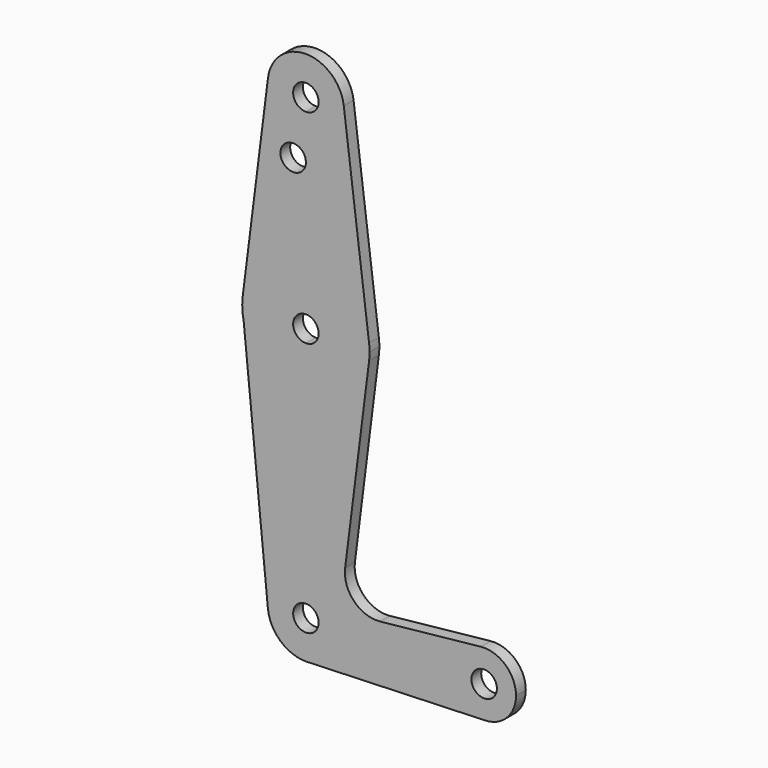
from build123d import *

# Parameters (mm, degrees)
F0_R     = 3.175
F1_DEPTH = 3.048


with BuildPart() as f1:
    # F0 (on Front) → F1 (new body)
    with BuildSketch(Plane.XZ):
        with BuildLine():
            ThreePointArc((-9.4502929642, 115.490625), (-7.14375, 107.9998046905), (0, 104.775))
            ThreePointArc((0, 104.775), (6.7351920908, 107.5648079092), (9.525, 114.3))
            ThreePointArc((9.525, 114.3), (9.5063048942, 114.896483242), (9.4502929642, 115.490625))
            ThreePointArc((9.4502929642, 115.490625), (0, 123.825), (-9.4502929642, 115.490625))
        make_face()
        with BuildLine():
            ThreePointArc((3.175, 114.3), (2.2450640303, 112.0549359697), (0, 111.125))
            ThreePointArc((0, 111.125), (-2.2450640303, 116.5450640303), (3.175, 114.3))
        make_face(mode=Mode.SUBTRACT)
        with BuildLine():
            ThreePointArc((9.525, 114.3), (6.7351920908, 107.5648079092), (0, 104.775))
            Line((0, 104.775), (0, 100.0252))
            Line((0, 100.0252), (0, 79.375))
            ThreePointArc((0, 79.375), (10.5003255158, 75.40625), (15.7504882737, 65.484375))
            Line((15.7504882737, 65.484375), (9.4502929642, 115.490625))
            ThreePointArc((9.4502929642, 115.490625), (9.5063048942, 114.896483242), (9.525, 114.3))
        make_face()
        with BuildLine():
            Line((0, 100.0252), (0, 104.775))
            ThreePointArc((0, 104.775), (-7.14375, 107.9998046905), (-9.4502929642, 115.490625))
            Line((-9.4502929642, 115.490625), (-15.7504882737, 65.484375))
            ThreePointArc((-15.7504882737, 65.484375), (-10.5003255158, 75.40625), (0, 79.375))
            Line((0, 79.375), (0, 100.0252))
        make_face()
        with Locations((-3.175, 100.0252)):
            Circle(F0_R, mode=Mode.SUBTRACT)
        with BuildLine():
            ThreePointArc((15.7504882737, 65.484375), (10.5003255158, 75.40625), (0, 79.375))
            Line((0, 79.375), (0, 66.675))
            ThreePointArc((0, 66.675), (2.2450640303, 65.7450640303), (3.175, 63.5))
            ThreePointArc((3.175, 63.5), (2.2450640303, 61.2549359697), (0, 60.325))
            Line((0, 60.325), (0, 47.625))
            ThreePointArc((0, 47.625), (10.5003255158, 51.59375), (15.7504882737, 61.515625))
            ThreePointArc((15.7504882737, 61.515625), (15.8438414904, 62.5058612634), (15.875, 63.5))
            ThreePointArc((15.875, 63.5), (15.8438414904, 64.4941387366), (15.7504882737, 65.484375))
        make_face()
        with BuildLine():
            Line((0, 66.675), (0, 79.375))
            ThreePointArc((0, 79.375), (-10.5003255158, 75.40625), (-15.7504882737, 65.484375))
            ThreePointArc((-15.7504882737, 65.484375), (-15.8584874514, 62.7761210362), (-15.5042087066, 60.0889682817))
            ThreePointArc((-15.5042087066, 60.0889682817), (-9.9464942686, 51.1273334821), (0, 47.625))
            Line((0, 47.625), (0, 60.325))
            ThreePointArc((0, 60.325), (-3.175, 63.5), (0, 66.675))
        make_face()
        with BuildLine():
            ThreePointArc((0, 47.625), (-9.9464942686, 51.1273334821), (-15.5042087066, 60.0889682817))
            Line((-15.5042087066, 60.0889682817), (-9.4789088694, -0.9359015145))
            ThreePointArc((-9.4789088694, -0.9359015145), (-7.0583314929, 6.3957471445), (0, 9.525))
            Line((0, 9.525), (0, 47.625))
        make_face()
        with BuildLine():
            ThreePointArc((15.7504882737, 61.515625), (10.5003255158, 51.59375), (0, 47.625))
            Line((0, 47.625), (0, 9.525))
            ThreePointArc((0, 9.525), (6.7351920908, 6.7351920908), (9.525, 0))
            Line((9.525, 0), (36.5125, 0))
            ThreePointArc((36.5125, 0), (38.5531915997, 5.3133376459), (43.6259631659, 7.894610158))
            Line((43.6259631659, 7.894610158), (18.4990640257, 5.271872619))
            ThreePointArc((18.4990640257, 5.271872619), (11.9924489796, 7.6177323413), (9.7858642053, 14.1728891532))
            Line((9.7858642053, 14.1728891532), (15.7504882737, 61.515625))
        make_face()
        with BuildLine():
            ThreePointArc((0, 9.525), (-7.0583314929, 6.3957471445), (-9.4789088694, -0.9359015145))
            ThreePointArc((-9.4789088694, -0.9359015145), (-6.3957471445, -7.0583314929), (0, -9.525))
            Line((0, -9.525), (0.6773435479, -9.500885786))
            ThreePointArc((0.6773435479, -9.500885786), (6.9705567315, -6.4912990883), (9.525, 0))
            Line((9.525, 0), (3.175, 0))
            ThreePointArc((3.175, 0), (-2.2450640303, -2.2450640303), (0, 3.175))
            Line((0, 3.175), (0, 9.525))
        make_face()
        with BuildLine():
            Line((0.6773435479, -9.500885786), (0, -9.525))
            ThreePointArc((0, -9.525), (0.3388863295, -9.5189695375), (0.6773435479, -9.500885786))
        make_face()
        with BuildLine():
            Line((36.5125, 0), (9.525, 0))
            ThreePointArc((9.525, 0), (6.9705567315, -6.4912990883), (0.6773435479, -9.500885786))
            Line((0.6773435479, -9.500885786), (44.7324052746, -7.9324746146))
            ThreePointArc((44.7324052746, -7.9324746146), (38.9380895153, -5.7116327839), (36.5125, 0))
        make_face()
        with BuildLine():
            ThreePointArc((43.6259631659, 7.894610158), (38.5531915997, 5.3133376459), (36.5125, 0))
            ThreePointArc((36.5125, 0), (38.9380895153, -5.7116327839), (44.7324052746, -7.9324746146))
            ThreePointArc((44.7324052746, -7.9324746146), (50.1616327839, -5.5119104847), (52.3875, 0))
            ThreePointArc((52.3875, 0), (49.7633376459, 5.8968084003), (43.6259631659, 7.894610158))
        make_face()
        with BuildLine():
            ThreePointArc((47.625, 0), (44.45, -3.175), (41.275, 0))
            ThreePointArc((41.275, 0), (44.45, 3.175), (47.625, 0))
        make_face(mode=Mode.SUBTRACT)
        with BuildLine():
            ThreePointArc((9.525, 0), (6.7351920908, 6.7351920908), (0, 9.525))
            Line((0, 9.525), (0, 3.175))
            ThreePointArc((0, 3.175), (2.2450640303, 2.2450640303), (3.175, 0))
            Line((3.175, 0), (9.525, 0))
        make_face()
    extrude(amount=F1_DEPTH)


solid = f1.part
